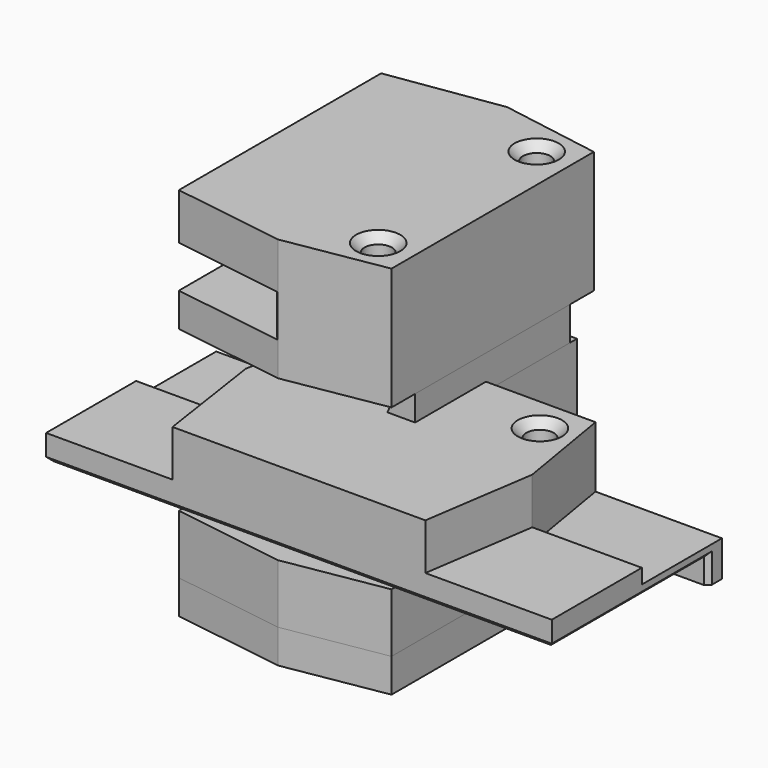
from build123d import *

# Parameters (mm, degrees)
SKETCH_W                = 23
SKETCH_H                = 23
PAD_DEPTH               = 2
PAD001_DEPTH            = 7
SKETCH016_R             = 1.625
POCKET_DEPTH            = 6.5
SKETCH012_R             = 1.75
POCKET001_DEPTH         = 5
PAD002_DEPTH            = 2
CHAMFER_SIZE            = 1
BODY001_PLACEMENT_ANGLE = 180
PAD003_DEPTH            = 14.5
SKETCH021_R             = 1.625
POCKET002_DEPTH         = 14.501
SKETCH023_W             = 34
SKETCH023_H             = 5
POCKET003_DEPTH         = 12.3
CHAMFER001_SIZE         = 1
CHAMFER002_SIZE         = 1
SKETCH024_R             = 2.5
POCKET004_DEPTH         = 8
SKETCH025_W             = 25.23103
SKETCH025_H             = 60
PAD004_DEPTH            = 3
PAD005_DEPTH            = 5.5
SKETCH027_R             = 1.625
POCKET005_DEPTH         = 6.5
SKETCH028_W             = 2
SKETCH028_H             = 60
PAD006_DEPTH            = 3
POCKET006_DEPTH         = 1.75
CHAMFER003_SIZE         = 0.5
CHAMFER004_SIZE         = 1
BODY_PLACEMENT_ANGLE    = 90
SKETCH030_W             = 25
SKETCH030_H             = 15
PAD007_DEPTH            = 2
PAD008_DEPTH            = 7
SKETCH032_R             = 1.625
POCKET007_DEPTH         = 6.5
SKETCH031_R             = 1.75
POCKET008_DEPTH         = 5
PAD009_DEPTH            = 2
CHAMFER005_SIZE         = 1
BODY003_PLACEMENT_ANGLE = 180


with BuildPart() as hotend:
    # Sketch → Pad (new body)
    with BuildSketch(Plane.YZ):
        Rectangle(SKETCH_W, SKETCH_H)
    extrude(amount=PAD_DEPTH)

    # Sketch017 (on Face4 of Pad) → Pad001 (join)
    with BuildSketch(Plane(origin=(0, 0, 11.5), x_dir=(0, -1, 0), z_dir=(0, 0, 1))):
        Polygon((-15, -23.23103), (15, -23.23103), (17, -9.88), (15, 2), (-15, 2), (-17, -9.88), align=None)
    extrude(amount=PAD001_DEPTH)

    # Sketch016 (on Face6 of Pad001) → Pocket (cut)
    with BuildSketch(Plane(origin=(0, 0, 18.5), x_dir=(0, -1, 0), z_dir=(0, 0, 1))):
        with Locations((11.75, -2.18)):
            Circle(SKETCH016_R)
        with Locations((-11.75, -2.18)):
            Circle(SKETCH016_R)
    extrude(amount=-POCKET_DEPTH, mode=Mode.SUBTRACT)

    # Sketch012 (on Face11 of Pad001) → Pocket001 (cut)
    with BuildSketch(Plane(origin=(0, 0, 0), x_dir=(0, 1, 0), z_dir=(-1, 0, 0))):
        with Locations((-4.75, -4.735)):
            Circle(SKETCH012_R)
        with Locations((4.75, 4.735)):
            Circle(SKETCH012_R)
    extrude(amount=-POCKET001_DEPTH, mode=Mode.SUBTRACT)

    # Sketch018 (on Face12 of Pocket001) → Pad002 (join)
    with BuildSketch(Plane(origin=(0, -11.5, 0), x_dir=(0, 0, -1), z_dir=(0, -1, 0))):
        Polygon((-11.5, -9.88), (11.5, 0), (-11.5, 0), align=None)
    pad002 = extrude(amount=-PAD002_DEPTH)

    # Mirrored: Pad002 across XZ
    add(pad002.mirror(Plane.XZ))

    # Chamfer
    chamfer_edges = [hotend.edges().sort_by_distance(p)[0] for p in [
        (-2.18, 13.375, 18.5),
        (-2.18, -10.125, 18.5),
    ]]
    chamfer(chamfer_edges, length=CHAMFER_SIZE)


with BuildPart() as hotend_1:
    # Body001 placement: moved
    add(hotend.part.rotate(Axis((0, 0, 0), (1, 0, 0)), BODY001_PLACEMENT_ANGLE))


with BuildPart() as bed:
    # Sketch022 → Pad003 (new body)
    with BuildSketch(Plane(origin=(0, 0, 11.5), x_dir=(0, -1, 0), z_dir=(0, 0, 1))):
        Polygon((-15, -23.23103), (15, -23.23103), (17, -9.88), (15, 2), (-15, 2), (-17, -9.88), align=None)
    extrude(amount=PAD003_DEPTH)

    # Sketch021 (on Face8 of Pad003) → Pocket002 (cut, through all)
    with BuildSketch(Plane(origin=(0, 0, 26), x_dir=(0, -1, 0), z_dir=(0, 0, 1))):
        with Locations((11.75, -2.18)):
            Circle(SKETCH021_R)
        with Locations((-11.75, -2.18)):
            Circle(SKETCH021_R)
    extrude(amount=-POCKET002_DEPTH, mode=Mode.SUBTRACT)

    # Sketch023 (on Face8 of Pocket002) → Pocket003 (cut)
    with BuildSketch(Plane(origin=(-23.23103, 0, 11.5), x_dir=(0, -1, 0), z_dir=(-1, 0, 0))):
        with Locations((0, 6.5)):
            Rectangle(SKETCH023_W, SKETCH023_H)
    extrude(amount=-POCKET003_DEPTH, mode=Mode.SUBTRACT)

    # Chamfer001
    chamfer001_edges = [bed.edges().sort_by_distance(p)[0] for p in [
        (-2.18, -10.125, 26),
        (-2.18, 13.375, 26),
    ]]
    chamfer(chamfer001_edges, length=CHAMFER001_SIZE)

    # Chamfer002
    chamfer002_edges = [bed.edges().sort_by_distance(p)[0] for p in [
        (-10.93103, 16.842554, 18),
        (-10.93103, -16.842554, 18),
    ]]
    chamfer(chamfer002_edges, length=CHAMFER002_SIZE)

    # Sketch024 (on Face6 of Chamfer002) → Pocket004 (cut)
    with BuildSketch(Plane(origin=(0, 0, 11.5), x_dir=(0, -1, 0), z_dir=(0, 0, -1))):
        with Locations((-11.75, 2.18)):
            Circle(SKETCH024_R)
        with Locations((11.75, 2.18)):
            Circle(SKETCH024_R)
    extrude(amount=-POCKET004_DEPTH, mode=Mode.SUBTRACT)


with BuildPart() as simplebed:
    # Sketch025 → Pad004 (new body)
    with BuildSketch(Plane.XY):
        with Locations((-10.615515, 0)):
            Rectangle(SKETCH025_W, SKETCH025_H)
    extrude(amount=PAD004_DEPTH)

    # Sketch026 (on Face6 of Pad004) → Pad005 (join)
    with BuildSketch(Plane.XY.offset(3)):
        Polygon((-23.23103, 15), (-9.88, 17), (2, 15), (2, -15), (-9.88, -17), (-23.23103, -15), align=None)
    extrude(amount=PAD005_DEPTH)

    # Sketch027 (on Face12 of Pad005) → Pocket005 (cut)
    with BuildSketch(Plane.XY.offset(8.5)):
        with Locations((-2.18, 11.75)):
            Circle(SKETCH027_R)
        with Locations((-2.18, -11.75)):
            Circle(SKETCH027_R)
    extrude(amount=-POCKET005_DEPTH, mode=Mode.SUBTRACT)

    # Sketch028 (on Face4 of Pocket005) → Pad006 (join)
    with BuildSketch(Plane(origin=(0, 0, 0), x_dir=(1, 0, 0), z_dir=(0, 0, -1))):
        with Locations((1, 0)):
            Rectangle(SKETCH028_W, SKETCH028_H)
    extrude(amount=PAD006_DEPTH)

    # Sketch029 (on Face9 of Pad006) → Pocket006 (cut)
    with BuildSketch(Plane.XY.offset(3)):
        Polygon((2, 30), (-9.88, 30), (-9.88, 17), (2, 15), align=None)
        Polygon((2, -30), (2, -15), (-9.88, -17), (-9.88, -30), align=None)
    extrude(amount=-POCKET006_DEPTH, mode=Mode.SUBTRACT)

    # Chamfer003
    chamfer003_edges = [simplebed.edges().sort_by_distance(p)[0] for p in [
        (0, 30, -1.5),
        (0, -30, -1.5),
        (-11.615515, 30, 0),
        (-23.23103, 0, 0),
        (-11.615515, -30, 0),
    ]]
    chamfer(chamfer003_edges, length=CHAMFER003_SIZE)

    # Chamfer004
    chamfer004_edges = [simplebed.edges().sort_by_distance(p)[0] for p in [
        (-3.805, -11.75, 8.5),
        (-3.805, 11.75, 8.5),
    ]]
    chamfer(chamfer004_edges, length=CHAMFER004_SIZE)


with BuildPart() as simplebed_1:
    # Body placement: moved
    add(simplebed.part.moved(Location((0, -3, 0))).rotate(Axis((0, -3, 0), (0, 0, 1)), BODY_PLACEMENT_ANGLE))


with BuildPart() as ender3v1hotend:
    # Sketch030 → Pad007 (new body)
    with BuildSketch(Plane.YZ):
        Rectangle(SKETCH030_W, SKETCH030_H)
    extrude(amount=PAD007_DEPTH)

    # Sketch033 (on Face4 of Pad007) → Pad008 (join)
    with BuildSketch(Plane(origin=(0, 0, 7.5), x_dir=(0, -1, 0), z_dir=(0, 0, 1))):
        Polygon((-15, -23.23103), (15, -23.23103), (17, -9.88), (15, 2), (-15, 2), (-17, -9.88), align=None)
    extrude(amount=PAD008_DEPTH)

    # Sketch032 (on Face6 of Pad008) → Pocket007 (cut)
    with BuildSketch(Plane(origin=(0, 0, 14.5), x_dir=(0, -1, 0), z_dir=(0, 0, 1))):
        with Locations((11.75, -2.18)):
            Circle(SKETCH032_R)
        with Locations((-11.75, -2.18)):
            Circle(SKETCH032_R)
    extrude(amount=-POCKET007_DEPTH, mode=Mode.SUBTRACT)

    # Sketch031 (on Face11 of Pad008) → Pocket008 (cut)
    with BuildSketch(Plane(origin=(0, 0, 0), x_dir=(0, 1, 0), z_dir=(-1, 0, 0))):
        with Locations((-6.925, 0)):
            Circle(SKETCH031_R)
        with Locations((6.925, 0)):
            Circle(SKETCH031_R)
    extrude(amount=-POCKET008_DEPTH, mode=Mode.SUBTRACT)

    # Sketch034 (on Face12 of Pocket008) → Pad009 (join)
    with BuildSketch(Plane(origin=(0, -12.5, 0), x_dir=(0, 0, -1), z_dir=(0, -1, 0))):
        Polygon((-7.5, -9.88), (7.5, 0), (-7.5, 0), align=None)
    pad009 = extrude(amount=-PAD009_DEPTH)

    # Mirrored001: Pad009 across XZ
    add(pad009.mirror(Plane.XZ))

    # Chamfer005
    chamfer005_edges = [ender3v1hotend.edges().sort_by_distance(p)[0] for p in [
        (-2.18, 13.375, 14.5),
        (-2.18, -10.125, 14.5),
    ]]
    chamfer(chamfer005_edges, length=CHAMFER005_SIZE)


with BuildPart() as ender3v1hotend_1:
    # Body003 placement: moved
    add(ender3v1hotend.part.rotate(Axis((0, 0, 0), (1, 0, 0)), BODY003_PLACEMENT_ANGLE))


solid = Compound([hotend_1.part, bed.part, simplebed_1.part, ender3v1hotend_1.part])
